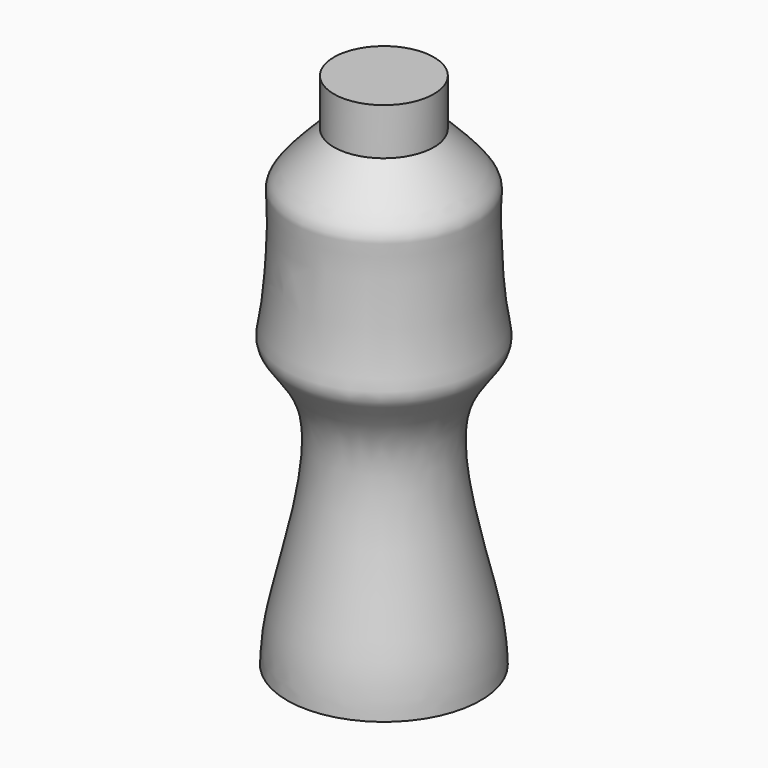
from build123d import *


with BuildPart() as f1:
    # F0 (on Front) → F1 (revolve)
    with BuildSketch(Plane.XZ):
        with BuildLine():
            Line((0, -51.750652492), (0, 43.6101034284))
            Line((0, 43.6101034284), (-9.1871954501, 43.6101034284))
            Line((-9.1871954501, 43.6101034284), (-9.1871954501, 35.0043736398))
            add(Edge.make_bspline(
                [(-9.1871954501, 35.0043736398), (-12.4415690466, 31.7848453268), (-17.5140629617, 26.7666637035), (-16.491088285, 23.3329824451), (-17.2756883794, 4.9015450952), (-19.4299151016, -0.3055260504), (-7.4816141395, -10.1540144292), (-17.4325118727, -41.8980772422), (-17.6979601318, -49.1546782115), (-17.7929215133, -51.750652492)],
                knots=[0, 0, 0, 0, 0.1395603424, 0.217528494, 0.3941030161, 0.4895353624, 0.634425844, 0.8692196097, 1, 1, 1, 1], degree=3))
            Line((-17.7929215133, -51.750652492), (0, -51.750652492))
        make_face()
    revolve(axis=Axis((0, 0, -4.0702745318), (0, 0, -1)))


solid = f1.part
